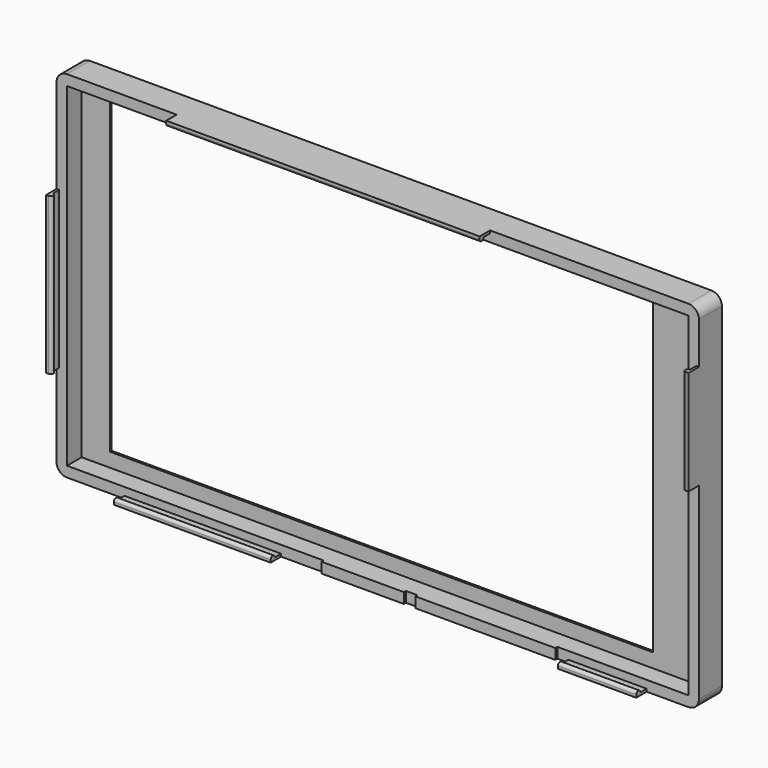
from build123d import *

# Parameters (mm, degrees)
SKETCH_W      = 123
SKETCH_H      = 68
SKETCH_W_2    = 104
SKETCH_H_2    = 60
PAD_DEPTH     = 2
SKETCH001_W   = 123
SKETCH001_H   = 68
SKETCH001_W_2 = 119
SKETCH001_H_2 = 64
PAD001_DEPTH  = 3.5
PAD006_START  = -40
PAD006_DEPTH  = 60
PAD007_START  = -10
PAD007_DEPTH  = 20
PAD008_START  = -20
PAD008_DEPTH  = 30
PAD009_START  = -10
PAD009_DEPTH  = 15
PAD010_START  = -80
PAD010_DEPTH  = 30
SKETCH016_W   = 15.8
SKETCH016_H   = 2
SKETCH016_W_2 = 26.8
PAD014_DEPTH  = 0.5
FILLET_R      = 2
CHAMFER_SIZE  = 1.6


with BuildPart() as part:
    # Sketch → Pad (new body)
    with BuildSketch(Plane.XZ):
        with Locations((0.1, 0)):
            Rectangle(SKETCH_W, SKETCH_H)
        with Locations((-2, 0.7)):
            Rectangle(SKETCH_W_2, SKETCH_H_2, mode=Mode.SUBTRACT)
    extrude(amount=PAD_DEPTH)

    # Sketch001 (on Face10 of Pad) → Pad001 (join)
    with BuildSketch(Plane.XZ.offset(2)):
        with Locations((0.1, 0)):
            Rectangle(SKETCH001_W, SKETCH001_H)
        with Locations((0.1, 0)):
            Rectangle(SKETCH001_W_2, SKETCH001_H_2, mode=Mode.SUBTRACT)
    extrude(amount=PAD001_DEPTH)

    # Sketch008 (on Face7 of Pad001) → Pad006 (join)
    with BuildSketch(Plane(origin=(61.6, 0, 0), x_dir=(0, 0, 1), z_dir=(1, 0, 0)).offset(PAD006_START)):
        with BuildLine():
            Line((34, 5.5), (34, 8))
            Line((33.5, 8), (34, 8))
            ThreePointArc((33.5, 8), (33, 7.5), (33.5, 7))
            Line((33.5, 5.5), (33.5, 7))
            Line((33.5, 5.5), (34, 5.5))
        make_face()
    extrude(amount=-PAD006_DEPTH)

    # Sketch009 (on Face5 of Pad006) → Pad007 (join)
    with BuildSketch(Plane(origin=(0, 0, 34), x_dir=(-1, 0, 0), z_dir=(0, 0, 1)).offset(PAD007_START)):
        with BuildLine():
            Line((-61.1, 5.5), (-61.6, 5.5))
            Line((-61.6, 5.5), (-61.6, 8))
            Line((-61.6, 8), (-61.1, 8))
            ThreePointArc((-61.1, 7), (-60.6, 7.5), (-61.1, 8))
            Line((-61.1, 5.5), (-61.1, 7))
        make_face()
    extrude(amount=-PAD007_DEPTH)

    # Sketch010 (on Face5 of Pad007) → Pad008 (join)
    with BuildSketch(Plane(origin=(0, 0, 34), x_dir=(-1, 0, 0), z_dir=(0, 0, 1)).offset(PAD008_START)):
        with BuildLine():
            Line((60.9, 7), (60.9, 5.5))
            Line((60.9, 5.5), (61.4, 5.5))
            Line((61.4, 5.5), (61.4, 8))
            Line((61.4, 8), (60.9, 8))
            ThreePointArc((60.9, 8), (60.4, 7.5), (60.9, 7))
        make_face()
    extrude(amount=-PAD008_DEPTH)

    # Sketch011 (on Face7 of Pad008) → Pad009 (join)
    with BuildSketch(Plane(origin=(61.6, 0, 0), x_dir=(0, 0, 1), z_dir=(1, 0, 0)).offset(PAD009_START)):
        with BuildLine():
            Line((-33.5, 7), (-33.5, 5.5))
            Line((-33.5, 5.5), (-34, 5.5))
            Line((-34, 5.5), (-34, 8))
            Line((-34, 8), (-33.5, 8))
            ThreePointArc((-33.5, 7), (-33, 7.5), (-33.5, 8))
        make_face()
    extrude(amount=-PAD009_DEPTH)

    # Sketch011 (on Face7 of Pad008) → Pad010 (join)
    with BuildSketch(Plane(origin=(61.6, 0, 0), x_dir=(0, 0, 1), z_dir=(1, 0, 0)).offset(PAD010_START)):
        with BuildLine():
            Line((-33.5, 7), (-33.5, 5.5))
            Line((-33.5, 5.5), (-34, 5.5))
            Line((-34, 5.5), (-34, 8))
            Line((-34, 8), (-33.5, 8))
            ThreePointArc((-33.5, 7), (-33, 7.5), (-33.5, 8))
        make_face()
    extrude(amount=-PAD010_DEPTH)

    # Sketch016 (on Face13 of Pad010) → Pad014 (join)
    with BuildSketch(Plane.XZ.offset(5.5)):
        with Locations((-2.4, -33)):
            Rectangle(SKETCH016_W, SKETCH016_H)
        with Locations((21.1, -33)):
            Rectangle(SKETCH016_W_2, SKETCH016_H)
    extrude(amount=PAD014_DEPTH)

    # Fillet
    fillet_edges = [part.edges().sort_by_distance(p)[0] for p in [
        (61.6, -1, -34),
        (-61.4, -1, -34),
        (-61.4, -1, 34),
        (61.6, -1, 34),
    ]]
    fillet(fillet_edges, radius=FILLET_R)

    # Chamfer
    chamfer_edges = [part.edges().sort_by_distance(p)[0] for p in [
        (-54, 0, 0.7),
        (-2, 0, -29.3),
        (-2, 0, 30.7),
        (50, 0, 0.7),
    ]]
    chamfer(chamfer_edges, length=CHAMFER_SIZE)


solid = part.part
